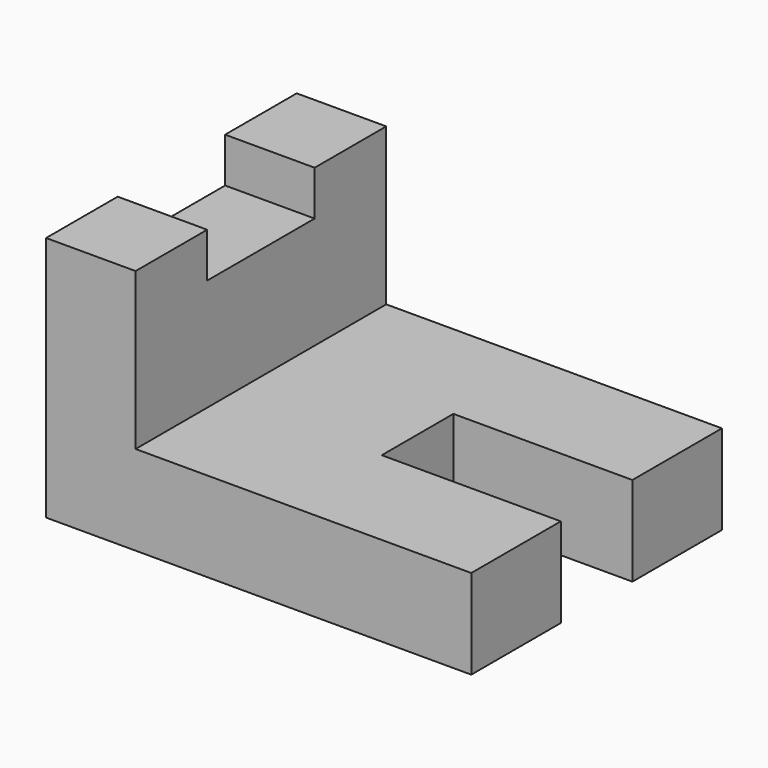
from build123d import *

# Parameters (mm, degrees)
F1_DEPTH = 20
F2_W     = 20
F2_H     = 35
F3_DEPTH = 70
F4_W     = 30
F4_H     = 10
F5_DEPTH = 20.001


with BuildPart() as f1:
    # F0 (on Top) → F1 (new body)
    with BuildSketch(Plane.XY):
        Polygon((-47.5, -35), (47.5, -35), (47.5, -10), (7.5, -10), (7.5, 0), (7.5, 10), (47.5, 10), (47.5, 35), (-47.5, 35), align=None)
    extrude(amount=F1_DEPTH)

    # F2 (on face) → F3 (join)
    with BuildSketch(Plane.XZ.offset(35)):
        with Locations((-37.5, 37.5)):
            Rectangle(F2_W, F2_H)
    extrude(amount=-F3_DEPTH)

    # F4 (on face) → F5 (cut, through all)
    with BuildSketch(Plane.YZ.offset(-27.5)):
        with Locations((0, 50)):
            Rectangle(F4_W, F4_H)
    extrude(amount=-F5_DEPTH, mode=Mode.SUBTRACT)


solid = f1.part
